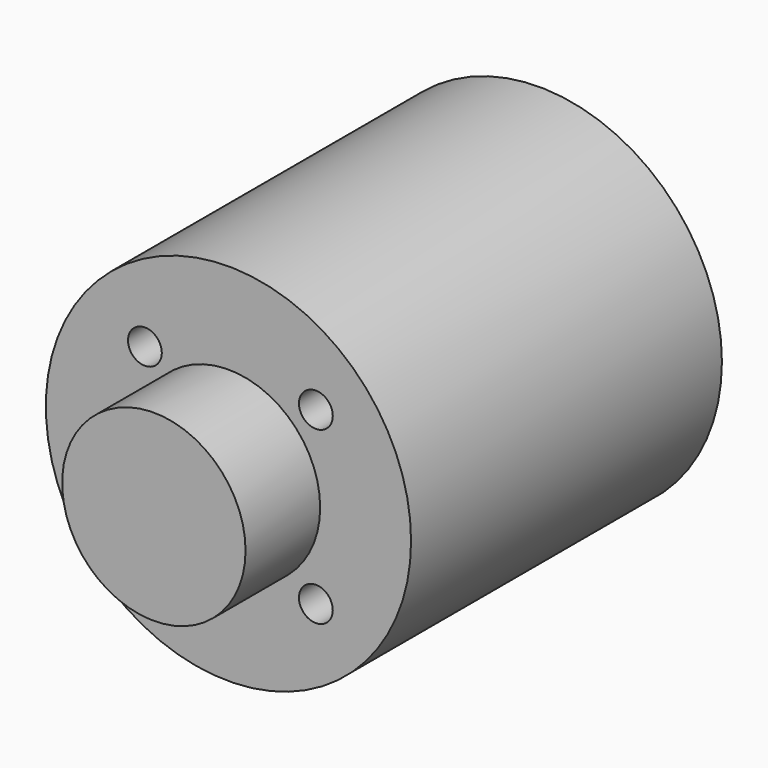
from build123d import *

# Parameters (mm, degrees)
F0_R     = 11.938
F0_R_2   = 1.1049
F0_R_3   = 5.9944
F1_DEPTH = 25.4
F0_R_4   = 4.0005
F2_DEPTH = 31.496
F3_DEPTH = 31.496
F4_R     = 4.0005
F5_DEPTH = 29.21


with BuildPart() as f1:
    # F0 (on Front) → F1 (new body)
    with BuildSketch(Plane.XZ):
        Circle(F0_R)
        with Locations((-5.461991, -5.638247)):
            Circle(F0_R_2, mode=Mode.SUBTRACT)
        with Locations((5.714009, -5.638247)):
            Circle(F0_R_2, mode=Mode.SUBTRACT)
        with Locations((-5.461991, 5.537753)):
            Circle(F0_R_2, mode=Mode.SUBTRACT)
        Circle(F0_R_3, mode=Mode.SUBTRACT)
        with Locations((5.714009, 5.537753)):
            Circle(F0_R_2, mode=Mode.SUBTRACT)
    extrude(amount=F1_DEPTH)

    # F0 (on Front) → F2 (join)
    with BuildSketch(Plane.XZ):
        Circle(F0_R_3)
        Circle(F0_R_4, mode=Mode.SUBTRACT)
    extrude(amount=F2_DEPTH)

    # F0 (on Front) → F3 (join)
    with BuildSketch(Plane.XZ):
        Circle(F0_R_4)
    extrude(amount=F3_DEPTH)

    # F4 (on face) + F0 (on Front) → F5 (cut)
    with BuildSketch(Plane.XZ):
        Circle(F4_R)
    with BuildSketch(Plane.XZ):
        Circle(F0_R_4)
    extrude(amount=F5_DEPTH, mode=Mode.SUBTRACT)


solid = f1.part
